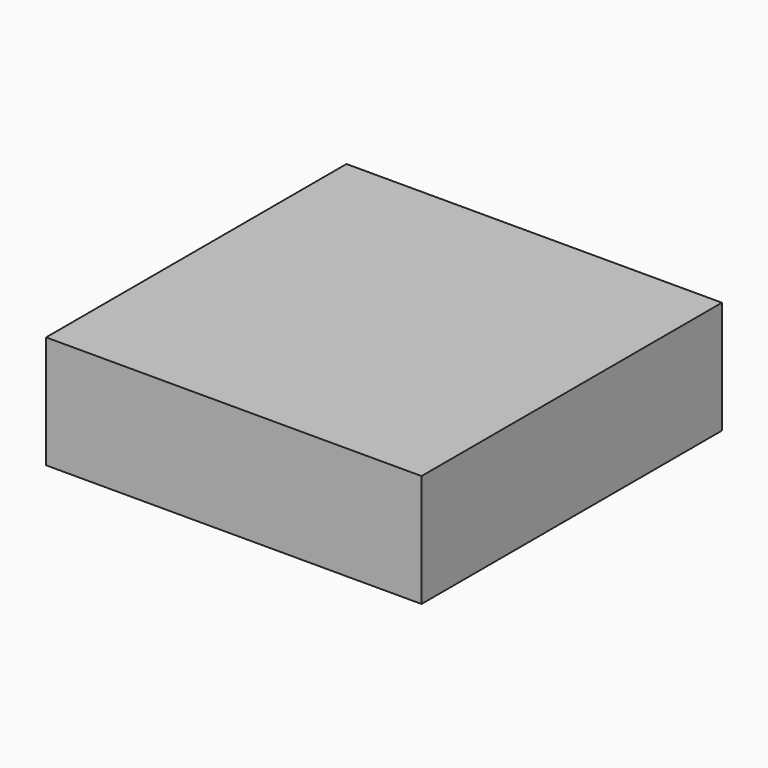
from build123d import *

# Parameters (mm, degrees)
SKETCH_W         = 12
SKETCH_H         = 16
EXTRUDE_DEPTH    = 0.035
SKETCH001_W      = 24
SKETCH001_H      = 32
EXTRUDE001_DEPTH = 1.524
SKETCH003_W      = 24
SKETCH003_H      = 32
EXTRUDE002_DEPTH = 0.035
SKETCH002_W      = 0.2
SKETCH002_H      = 2
EXTRUDE003_DEPTH = 1.6
SKETCH004_W      = 80
SKETCH004_H      = 80
EXTRUDE004_DEPTH = 12


with BuildPart() as antenna:
    # Sketch → Extrude (new body)
    with BuildSketch(Plane.XY):
        Rectangle(SKETCH_W, SKETCH_H)
    extrude(amount=EXTRUDE_DEPTH)


with BuildPart() as substrate:
    # Sketch001 (on Sketch) → Extrude001 (new body)
    with BuildSketch(Plane.XY):
        Rectangle(SKETCH001_W, SKETCH001_H)
    extrude(amount=-EXTRUDE001_DEPTH)


with BuildPart() as gnd:
    # Sketch003 (on Face6 of Extrude001) → Extrude002 (new body)
    with BuildSketch(Plane(origin=(0, 0, -1.524), x_dir=(1, 0, 0), z_dir=(0, 0, -1))):
        Rectangle(SKETCH003_W, SKETCH003_H)
    extrude(amount=EXTRUDE002_DEPTH)


with BuildPart() as excitation:
    # Sketch002 (on Sketch) → Extrude003 (new body)
    with BuildSketch(Plane.XY):
        with Locations((-5.9, 0)):
            Rectangle(SKETCH002_W, SKETCH002_H)
    extrude(amount=-EXTRUDE003_DEPTH)


with BuildPart() as excitation_1:
    # Extrude003 placement: moved
    add(excitation.part.moved(Location((0, 0, 0.035))))


with BuildPart() as air:
    # Sketch004 → Extrude004 (new body, symmetric)
    with BuildSketch(Plane.XY):
        Rectangle(SKETCH004_W, SKETCH004_H)
    extrude(amount=EXTRUDE004_DEPTH, both=True)


solid = Compound([antenna.part, substrate.part, gnd.part, excitation_1.part, air.part])
